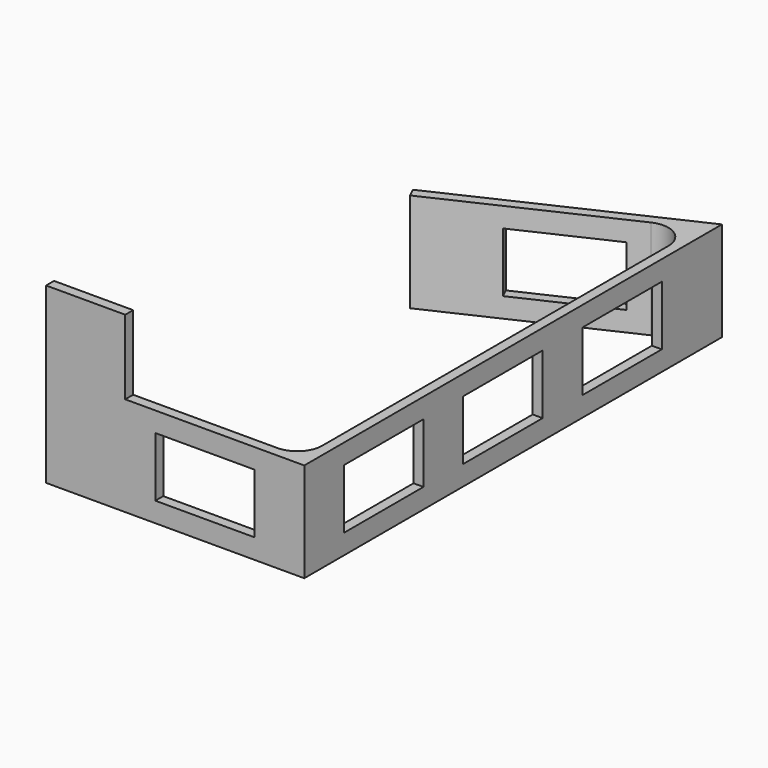
from build123d import *

# Parameters (mm, degrees)
F1_DEPTH  = 20
F2_R      = 5
F3_W      = 15.9383661317
F3_H      = 2
F4_DEPTH  = 15
F5_W      = 20
F5_H      = 12
F6_DEPTH  = 2
F7_W      = 20
F7_H      = 12
F8_DEPTH  = 15.2
F9_W      = 20
F9_H      = 12
F10_DEPTH = 25


with BuildPart() as f1:
    # F0 (on Top) → F1 (new body)
    with BuildSketch(Plane.XY):
        Polygon((20.42718686, -51.6759875909), (-29.57281314, -51.6759875909), (-29.57281314, -53.6759875909), (22.42718686, -53.6759875909), (22.42718686, 51.4633835634), (-22.8882024919, 30.3324704763), (-22.0429659684, 28.5198549023), (20.42718686, 48.3240124091), align=None)
    extrude(amount=F1_DEPTH)

    # F2
    f2_edges = [f1.edges().sort_by_distance(p)[0] for p in [
        (20.427187, 48.324012, 10),
        (20.427187, -51.675988, 10),
    ]]
    fillet(f2_edges, radius=F2_R)

    # F3 (on face) → F4 (join)
    with BuildSketch(Plane.XY.offset(20)):
        with Locations((-21.6036300742, -52.6759875909)):
            Rectangle(F3_W, F3_H)
    extrude(amount=F4_DEPTH)

    # F5 (on face) → F6 (cut, through all)
    with BuildSketch(Plane.YZ.offset(22.42718686)):
        with Locations((-33.6759875909, 10)):
            Rectangle(F5_W, F5_H)
        with Locations((-3.6759875909, 10)):
            Rectangle(F5_W, F5_H)
        with Locations((26.3240124091, 10)):
            Rectangle(F5_W, F5_H)
    extrude(amount=-F6_DEPTH, mode=Mode.SUBTRACT)

    # F7 (on face) → F8 (cut)
    with BuildSketch(Plane(origin=(-15.7059849883, 33.6815935008, 0), x_dir=(-0.906307787, -0.4226182617, 0), z_dir=(-0.4226182617, 0.906307787, 0))):
        with Locations((-17.1167086999, 10)):
            Rectangle(F7_W, F7_H)
    extrude(amount=-F8_DEPTH, mode=Mode.SUBTRACT)

    # F9 (on face) → F10 (cut)
    with BuildSketch(Plane.XZ.offset(53.6759875909)):
        with Locations((2.42718686, 10)):
            Rectangle(F9_W, F9_H)
    extrude(amount=-F10_DEPTH, mode=Mode.SUBTRACT)


solid = f1.part
